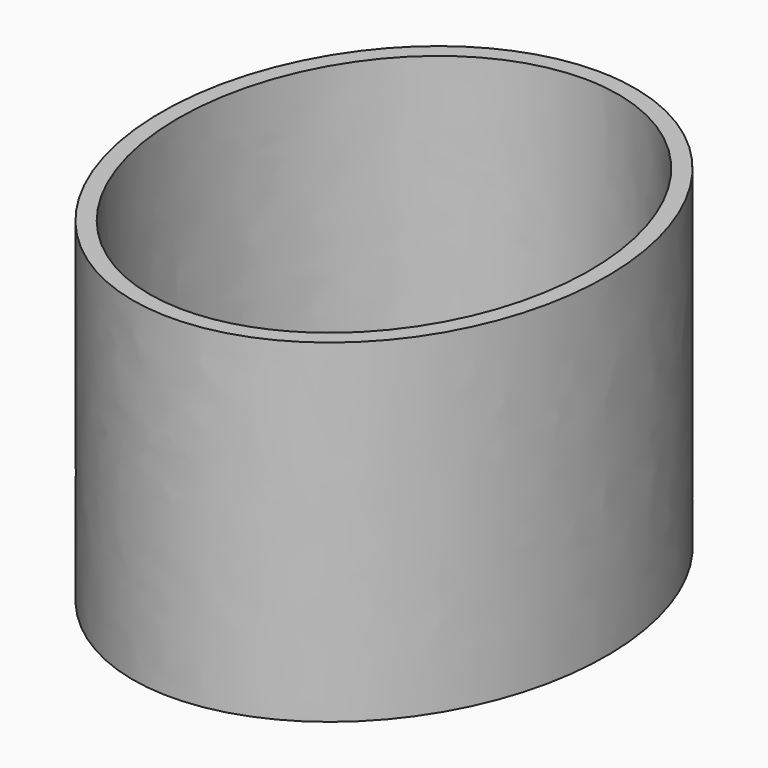
from build123d import *

# Parameters (mm, degrees)
PAD_DEPTH = 60


with BuildPart() as part:
    # Sketch → Pad (new body)
    with BuildSketch(Plane.XY):
        with BuildLine():
            add(Edge.make_bspline(
                [(0, 48), (-69.282032, 48), (-34.641016, -24), (0, -96), (34.641016, -24), (69.282032, 48), (0, 48)],
                knots=[0, 0, 0, 2.094395, 2.094395, 4.18879, 4.18879, 6.283185, 6.283185, 6.283185], degree=2, weights=[1, 0.5, 1, 0.5, 1, 0.5, 1]))
        make_face()
        with BuildLine():
            add(Edge.make_bspline(
                [(0, 45), (-64.08588, 45), (-32.04294, -22.5), (0, -90), (32.04294, -22.5), (64.08588, 45), (0, 45)],
                knots=[0, 0, 0, 2.094395, 2.094395, 4.18879, 4.18879, 6.283185, 6.283185, 6.283185], degree=2, weights=[1, 0.5, 1, 0.5, 1, 0.5, 1]))
        make_face(mode=Mode.SUBTRACT)
    extrude(amount=PAD_DEPTH)


solid = part.part
